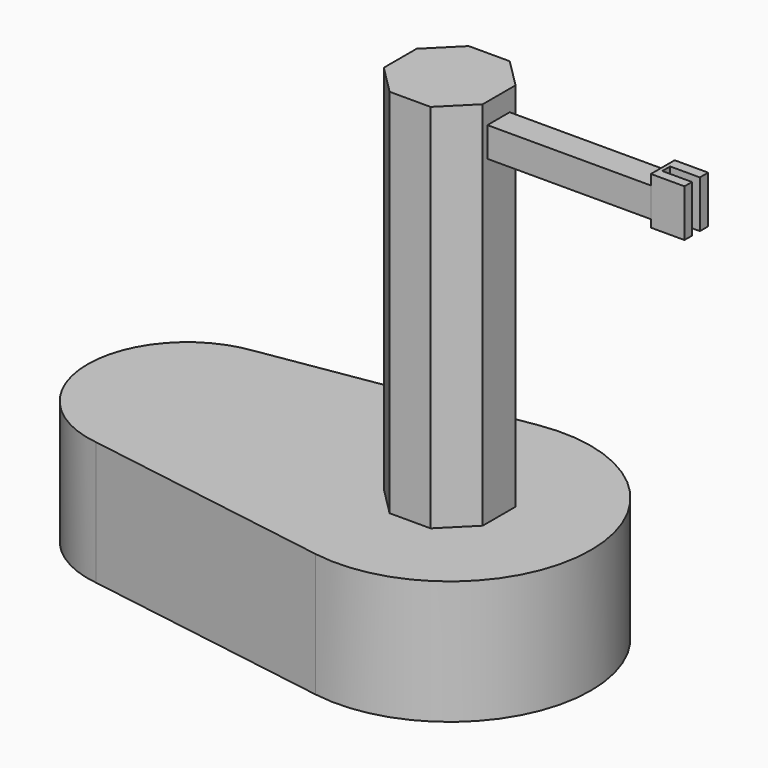
from build123d import *

# Parameters (mm, degrees)
F1_DEPTH = 25
F3_DEPTH = 75
F4_W     = 5.629124
F4_H     = 6
F5_DEPTH = 35
F6_W     = 6.780945
F6_H     = 9.562873
F7_DEPTH = 3
F8_W     = 2
F8_H     = 9.562873
F9_DEPTH = 6


with BuildPart() as f1:
    # F0 (on Top) → F1 (new body)
    with BuildSketch(Plane.XY):
        with BuildLine():
            Line((-4.536292, 28.185949), (-55.529496, 19.979021))
            ThreePointArc((-55.529496, 19.979021), (-73.186468, 0), (-55.529496, -19.979021))
            Line((-55.529496, -19.979021), (-4.536292, -28.185949))
            ThreePointArc((-4.536292, -28.185949), (28.548654, 0), (-4.536292, 28.185949))
        make_face()
    extrude(amount=F1_DEPTH)

    # F2 (on face) → F3 (join)
    with BuildSketch(Plane.XY.offset(25)):
        Polygon((-10, 4.142136), (-10, -4.142136), (-4.142136, -10), (4.142136, -10), (10, -4.142136), (10, 4.142136), (4.142136, 10), (-4.142136, 10), align=None)
    extrude(amount=F3_DEPTH)

    # F4 (on face) → F5 (join)
    with BuildSketch(Plane.YZ.offset(10)):
        with Locations((-0.144606, 92.806667)):
            Rectangle(F4_W, F4_H)
    extrude(amount=F5_DEPTH)

    # F6 (on Front) → F7 (join, symmetric)
    with BuildSketch(Plane.XZ):
        with Locations((46.465266, 93.107711)):
            Rectangle(F6_W, F6_H)
    extrude(amount=F7_DEPTH, both=True)

    # F8 (on face) → F9 (cut)
    with BuildSketch(Plane.YZ.offset(49.855739)):
        with Locations((-0.098561, 93.107711)):
            Rectangle(F8_W, F8_H)
    extrude(amount=-F9_DEPTH, mode=Mode.SUBTRACT)


solid = f1.part
